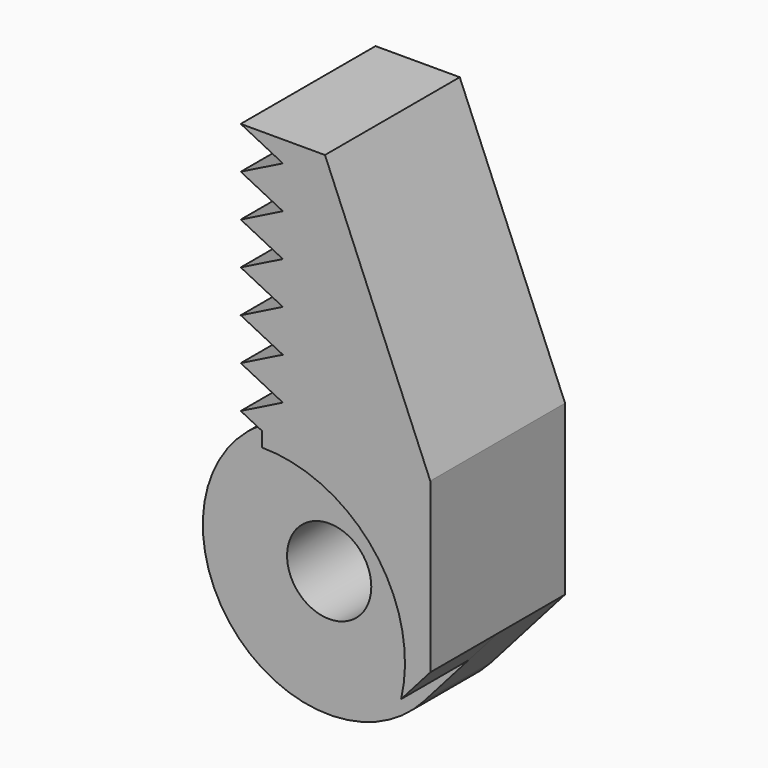
from build123d import *

# Parameters (mm, degrees)
F1_DEPTH      = 5
F3_DEPTH      = 5
F3_DEPTH_BACK = 5
F4_R          = 2.5
F5_DEPTH      = 5.001


with BuildPart() as f1:
    # F0 (on Front) → F1 (new body)
    with BuildSketch(Plane.XZ):
        with BuildLine():
            Line((0, 9.13175), (0, 7.5))
            ThreePointArc((0, 7.5), (-6.835784, -3.085784), (5.625, -4.960784))
            Line((5.625, -4.960784), (10, 0))
            Line((10, 0), (10, 10))
            Line((10, 10), (3.75, 25))
            Line((3.75, 25), (1.25, 25))
            Line((1.25, 25), (1.25, 10))
            Line((1.25, 10), (0, 9.13175))
        make_face()
    extrude(amount=F1_DEPTH)

    # F2 (on face) → F3 (join, two sides)
    with BuildSketch(Plane.XZ.offset(5)) as f3_sk:
        with BuildLine():
            Line((3.75, 25), (1.25, 25))
            Line((1.25, 25), (1.25, 23.75))
            Line((1.25, 23.75), (-1.25, 22.5))
            Line((-1.25, 22.5), (1.25, 21.25))
            Line((1.25, 21.25), (-1.25, 20))
            Line((-1.25, 20), (1.25, 18.75))
            Line((1.25, 18.75), (-1.25, 17.5))
            Line((-1.25, 17.5), (1.25, 16.25))
            Line((1.25, 16.25), (-1.25, 15))
            Line((-1.25, 15), (1.25, 13.75))
            Line((1.25, 13.75), (-1.25, 12.5))
            Line((-1.25, 12.5), (1.25, 11.25))
            Line((1.25, 11.25), (-1.25, 10))
            Line((-1.25, 10), (0, 9.375))
            Line((0, 9.375), (0, 9.13175))
            Line((0, 9.13175), (0, 8.5))
            ThreePointArc((0, 8.5), (6.667708, 5.27178), (8.270751, -1.960784))
            Line((8.270751, -1.960784), (10, 0))
            Line((10, 0), (10, 10))
            Line((10, 10), (3.75, 25))
        make_face()
        Polygon((1.25, 23.75), (1.25, 25), (-1.25, 25), align=None)
    extrude(amount=F3_DEPTH)
    extrude(f3_sk.sketch, amount=-F3_DEPTH_BACK)

    # F4 (on face) → F5 (cut, through all)
    with BuildSketch(Plane.XZ.offset(5)):
        Circle(F4_R)
    extrude(amount=-F5_DEPTH, mode=Mode.SUBTRACT)


with BuildPart() as f6_1:
    # F6: copy of F1
    add(f1.part)


with BuildPart() as f8_1:
    # F8: copy of F1
    add(f1.part.moved(Location((20, 0, 0))))


with BuildPart() as f10_1:
    # F10: copy of F1
    add(f1.part)


solid = f1.part
